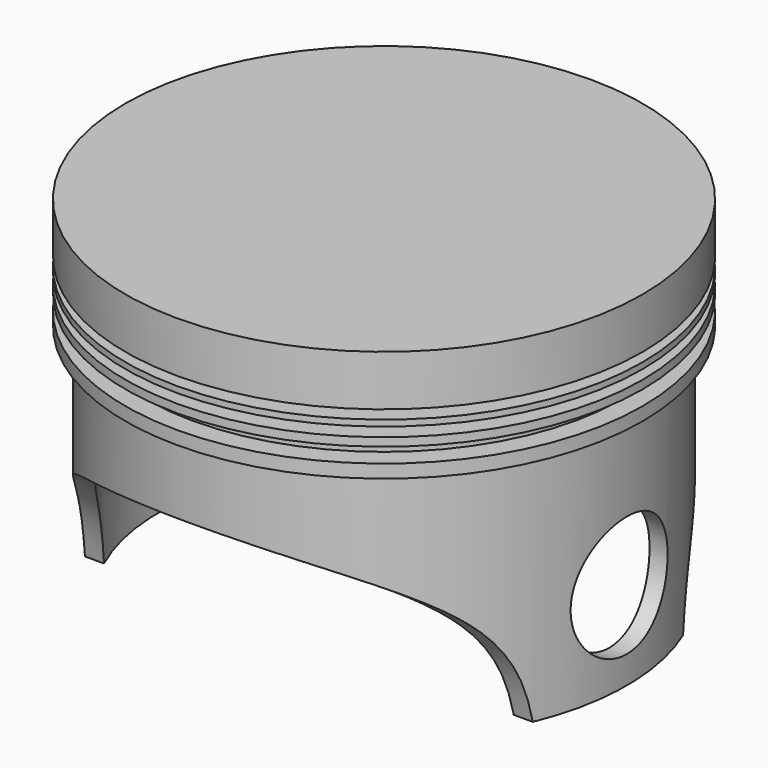
from build123d import *

# Parameters (mm, degrees)
F0_R     = 46.99
F1_DEPTH = 63.5
F2_W     = 8.8553838432
F2_H     = 43.2049967349
F4_W     = 5.4503902793
F4_H     = 1.6409792006
F4_H_2   = 1.6995854676
F4_H_3   = 2.6958957314
F6_R     = 40.9492493689
F7_DEPTH = 53.975
F8_R     = 11.0109
F9_DEPTH = 50.8


with BuildPart() as f1:
    # F0 (on Top) → F1 (new body)
    with BuildSketch(Plane.XY):
        Circle(F0_R)
    extrude(amount=F1_DEPTH)

    # F2 (on Right) → F3 (revolve, cut)
    with BuildSketch(Plane.YZ):
        with Locations((-48.5519412905, 21.6024983674)):
            Rectangle(F2_W, F2_H)
    revolve(axis=Axis((0, 0, 0), (0, 0, 1)), mode=Mode.SUBTRACT)

    # F4 (on Right) → F5 (revolve, cut)
    with BuildSketch(Plane.YZ):
        with Locations((-46.1188144982, 53.4723494202)):
            Rectangle(F4_W, F4_H)
        with Locations((-46.1188144982, 50.6885442883)):
            Rectangle(F4_W, F4_H_2)
        with Locations((-46.1188144982, 46.9670407474)):
            Rectangle(F4_W, F4_H_3)
    revolve(axis=Axis((0, 0, 43.2049967349), (0, 0, -1)), mode=Mode.SUBTRACT)

    # F6 (on face) → F7 (cut)
    with BuildSketch(Plane(origin=(0, 0, 0), x_dir=(1, 0, 0), z_dir=(0, 0, -1))):
        Circle(F6_R)
    extrude(amount=-F7_DEPTH, mode=Mode.SUBTRACT)

    # F8 (on Right) → F9 (cut, symmetric)
    with BuildSketch(Plane.YZ):
        with BuildLine():
            add(Edge.make_bspline(
                [(-46.9745136797, 31.0811214149), (-40.0877244728, 27.5083131565), (-27.2735309688, 20.8604174535), (-16.9769809248, 7.2973682669), (-15.9815300532, -11.6642689281), (-15.8178017222, -17.9375006966), (-15.7510973513, -20.4932708293)],
                knots=[0, 0, 0, 0, 0.2945724143, 0.5481085314, 0.815895417, 1, 1, 1, 1], degree=3))
            Line((-46.9745136797, 31.0811214149), (-50.5986586213, -20.4932708293))
            Line((-50.5986586213, -20.4932708293), (-15.7510973513, -20.4932708293))
        make_face()
        with Locations((0, 16.026975587)):
            Circle(F8_R)
        with BuildLine():
            Line((50.5986586213, -20.4932708293), (46.9745136797, 31.0811214149))
            add(Edge.make_bspline(
                [(46.9745136797, 31.0811214149), (40.0877244728, 27.5083131565), (27.2735309688, 20.8604174535), (16.9769809248, 7.2973682669), (15.9815300532, -11.6642689281), (15.8178017222, -17.9375006966), (15.7510973513, -20.4932708293)],
                knots=[0, 0, 0, 0, 0.2945724143, 0.5481085314, 0.815895417, 1, 1, 1, 1], degree=3))
            Line((15.7510973513, -20.4932708293), (50.5986586213, -20.4932708293))
        make_face()
    extrude(amount=F9_DEPTH, both=True, mode=Mode.SUBTRACT)


solid = f1.part
